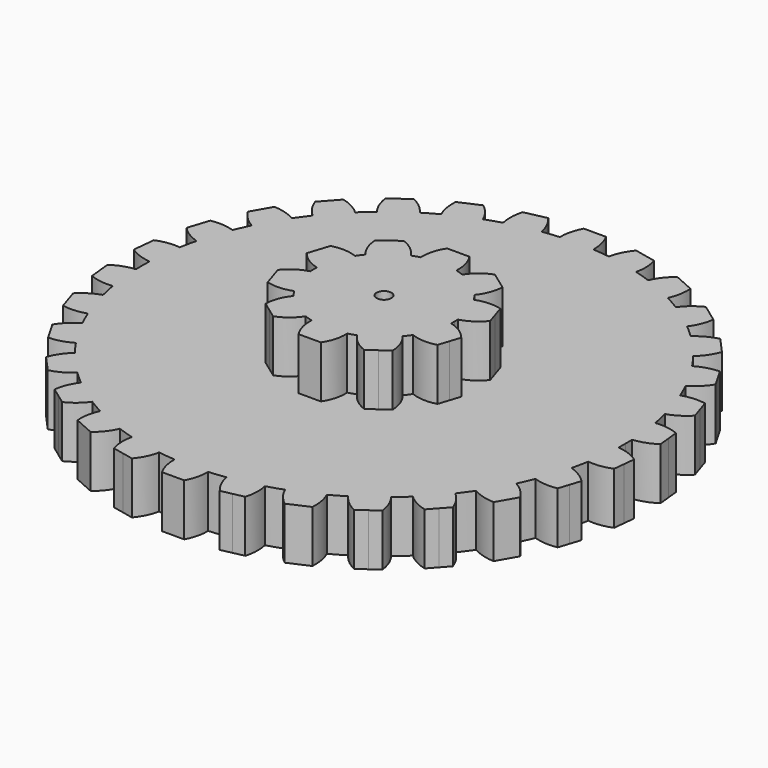
from build123d import *

# Parameters (mm, degrees)
F1_DEPTH = 7
F3_DEPTH = 7
F4_R     = 1
F5_DEPTH = 25


with BuildPart() as f1:
    # F0 (on Top) → F1 (new body)
    with BuildSketch(Plane.XY):
        with BuildLine():
            ThreePointArc((32.480111, -1.13684), (32.495027, -0.568507), (32.5, 0))
            ThreePointArc((32.5, 0), (32.495027, 0.568507), (32.480111, 1.13684))
            ThreePointArc((32.480111, 1.13684), (32.321962, 3.397175), (32.006705, 5.640998))
            ThreePointArc((32.006705, 5.640998), (31.789797, 6.75713), (31.53398, 7.864992))
            ThreePointArc((31.53398, 7.864992), (30.909337, 10.043052), (30.134452, 12.172296))
            ThreePointArc((30.134452, 12.172296), (29.690227, 13.218941), (29.209663, 14.249406))
            ThreePointArc((29.209663, 14.249406), (28.145826, 16.25), (26.945179, 18.171607))
            ThreePointArc((26.945179, 18.171607), (26.293052, 19.103021), (25.608744, 20.011053))
            ThreePointArc((25.608744, 20.011053), (24.152207, 21.746745), (22.578273, 23.376732))
            ThreePointArc((22.578273, 23.376732), (21.746745, 24.152207), (20.8886, 24.89812))
            ThreePointArc((20.8886, 24.89812), (19.103021, 26.293052), (17.224587, 27.560181))
            ThreePointArc((17.224587, 27.560181), (16.25, 28.145826), (15.255523, 28.697021))
            ThreePointArc((15.255523, 28.697021), (13.218941, 29.690227), (11.118105, 30.539118))
            ThreePointArc((11.118105, 30.539118), (10.043052, 30.909337), (8.955707, 31.241724))
            ThreePointArc((8.955707, 31.241724), (6.75713, 31.789797), (4.525708, 32.183349))
            ThreePointArc((4.525708, 32.183349), (3.397175, 32.321962), (2.264484, 32.421013))
            ThreePointArc((2.264484, 32.421013), (0, 32.5), (-2.264484, 32.421013))
            ThreePointArc((-2.264484, 32.421013), (-3.397175, 32.321962), (-4.525708, 32.183349))
            ThreePointArc((-4.525708, 32.183349), (-6.75713, 31.789797), (-8.955707, 31.241724))
            ThreePointArc((-8.955707, 31.241724), (-10.043052, 30.909337), (-11.118105, 30.539118))
            ThreePointArc((-11.118105, 30.539118), (-13.218941, 29.690227), (-15.255523, 28.697021))
            ThreePointArc((-15.255523, 28.697021), (-16.25, 28.145826), (-17.224587, 27.560181))
            ThreePointArc((-17.224587, 27.560181), (-19.103021, 26.293052), (-20.8886, 24.89812))
            ThreePointArc((-20.8886, 24.89812), (-21.746745, 24.152207), (-22.578273, 23.376732))
            ThreePointArc((-22.578273, 23.376732), (-24.152207, 21.746745), (-25.608744, 20.011053))
            ThreePointArc((-25.608744, 20.011053), (-26.293052, 19.103021), (-26.945179, 18.171607))
            ThreePointArc((-26.945179, 18.171607), (-28.145826, 16.25), (-29.209663, 14.249406))
            ThreePointArc((-29.209663, 14.249406), (-29.690227, 13.218941), (-30.134452, 12.172296))
            ThreePointArc((-30.134452, 12.172296), (-30.909337, 10.043052), (-31.53398, 7.864992))
            ThreePointArc((-31.53398, 7.864992), (-31.789797, 6.75713), (-32.006705, 5.640998))
            ThreePointArc((-32.006705, 5.640998), (-32.321962, 3.397175), (-32.480111, 1.13684))
            ThreePointArc((-32.480111, 1.13684), (-32.5, 0), (-32.480111, -1.13684))
            ThreePointArc((-32.480111, -1.13684), (-32.321962, -3.397175), (-32.006705, -5.640998))
            ThreePointArc((-32.006705, -5.640998), (-31.789797, -6.75713), (-31.53398, -7.864992))
            ThreePointArc((-31.53398, -7.864992), (-30.909337, -10.043052), (-30.134452, -12.172296))
            ThreePointArc((-30.134452, -12.172296), (-29.690227, -13.218941), (-29.209663, -14.249406))
            ThreePointArc((-29.209663, -14.249406), (-28.145826, -16.25), (-26.945179, -18.171607))
            ThreePointArc((-26.945179, -18.171607), (-26.293052, -19.103021), (-25.608744, -20.011053))
            ThreePointArc((-25.608744, -20.011053), (-24.152207, -21.746745), (-22.578273, -23.376732))
            ThreePointArc((-22.578273, -23.376732), (-21.746745, -24.152207), (-20.8886, -24.89812))
            ThreePointArc((-20.8886, -24.89812), (-19.103021, -26.293052), (-17.224587, -27.560181))
            ThreePointArc((-17.224587, -27.560181), (-16.25, -28.145826), (-15.255523, -28.697021))
            ThreePointArc((-15.255523, -28.697021), (-13.218941, -29.690227), (-11.118105, -30.539118))
            ThreePointArc((-11.118105, -30.539118), (-10.043052, -30.909337), (-8.955707, -31.241724))
            ThreePointArc((-8.955707, -31.241724), (-6.75713, -31.789797), (-4.525708, -32.183349))
            ThreePointArc((-4.525708, -32.183349), (-3.397175, -32.321962), (-2.264484, -32.421013))
            ThreePointArc((-2.264484, -32.421013), (0, -32.5), (2.264484, -32.421013))
            ThreePointArc((2.264484, -32.421013), (3.397175, -32.321962), (4.525708, -32.183349))
            ThreePointArc((4.525708, -32.183349), (6.75713, -31.789797), (8.955707, -31.241724))
            ThreePointArc((8.955707, -31.241724), (10.043052, -30.909337), (11.118105, -30.539118))
            ThreePointArc((11.118105, -30.539118), (13.218941, -29.690227), (15.255523, -28.697021))
            ThreePointArc((15.255523, -28.697021), (16.25, -28.145826), (17.224587, -27.560181))
            ThreePointArc((17.224587, -27.560181), (19.103021, -26.293052), (20.8886, -24.89812))
            ThreePointArc((20.8886, -24.89812), (21.746745, -24.152207), (22.578273, -23.376732))
            ThreePointArc((22.578273, -23.376732), (24.152207, -21.746745), (25.608744, -20.011053))
            ThreePointArc((25.608744, -20.011053), (26.293052, -19.103021), (26.945179, -18.171607))
            ThreePointArc((26.945179, -18.171607), (28.145826, -16.25), (29.209663, -14.249406))
            ThreePointArc((29.209663, -14.249406), (29.690227, -13.218941), (30.134452, -12.172296))
            ThreePointArc((30.134452, -12.172296), (30.909337, -10.043052), (31.53398, -7.864992))
            ThreePointArc((31.53398, -7.864992), (31.789797, -6.75713), (32.006705, -5.640998))
            ThreePointArc((32.006705, -5.640998), (32.321962, -3.397175), (32.480111, -1.13684))
        make_face()
        with BuildLine():
            ThreePointArc((32.006705, 5.640998), (32.321962, 3.397175), (32.480111, 1.13684))
            ThreePointArc((32.480111, 1.13684), (34.040847, 1.486015), (35.46232, 2.218978))
            Line((35.46232, 2.218978), (35.305527, 3.71076))
            Line((35.305527, 3.71076), (35.148735, 5.202543))
            ThreePointArc((35.148735, 5.202543), (33.605932, 5.623948), (32.006705, 5.640998))
        make_face()
        with BuildLine():
            ThreePointArc((35.46232, -2.218978), (34.040847, -1.486015), (32.480111, -1.13684))
            ThreePointArc((32.480111, -1.13684), (32.321962, -3.397175), (32.006705, -5.640998))
            ThreePointArc((32.006705, -5.640998), (33.605932, -5.623948), (35.148735, -5.202543))
            Line((35.148735, -5.202543), (35.305527, -3.71076))
            Line((35.305527, -3.71076), (35.46232, -2.218978))
        make_face()
        with BuildLine():
            ThreePointArc((30.134452, 12.172296), (30.909337, 10.043052), (31.53398, 7.864992))
            ThreePointArc((31.53398, 7.864992), (32.988013, 8.531032), (34.226032, 9.543519))
            Line((34.226032, 9.543519), (33.762506, 10.970103))
            Line((33.762506, 10.970103), (33.298981, 12.396688))
            ThreePointArc((33.298981, 12.396688), (31.702278, 12.488117), (30.134452, 12.172296))
        make_face()
        with BuildLine():
            ThreePointArc((34.226032, -9.543519), (32.988013, -8.531032), (31.53398, -7.864992))
            ThreePointArc((31.53398, -7.864992), (30.909337, -10.043052), (30.134452, -12.172296))
            ThreePointArc((30.134452, -12.172296), (31.702278, -12.488117), (33.298981, -12.396688))
            Line((33.298981, -12.396688), (33.762506, -10.970103))
            Line((33.762506, -10.970103), (34.226032, -9.543519))
        make_face()
        with BuildLine():
            ThreePointArc((26.945179, 18.171607), (28.145826, 16.25), (29.209663, 14.249406))
            ThreePointArc((29.209663, 14.249406), (30.493444, 15.203202), (31.493902, 16.450962))
            Line((31.493902, 16.450962), (30.743902, 17.75))
            Line((30.743902, 17.75), (29.993902, 19.049038))
            ThreePointArc((29.993902, 19.049038), (28.413081, 18.806496), (26.945179, 18.171607))
        make_face()
        with BuildLine():
            ThreePointArc((31.493902, -16.450962), (30.493444, -15.203202), (29.209663, -14.249406))
            ThreePointArc((29.209663, -14.249406), (28.145826, -16.25), (26.945179, -18.171607))
            ThreePointArc((26.945179, -18.171607), (28.413081, -18.806496), (29.993902, -19.049038))
            Line((29.993902, -19.049038), (30.743902, -17.75))
            Line((30.743902, -17.75), (31.493902, -16.450962))
        make_face()
        with BuildLine():
            ThreePointArc((22.578273, 23.376732), (24.152207, 21.746745), (25.608744, 20.011053))
            ThreePointArc((25.608744, 20.011053), (26.666166, 21.210919), (27.385337, 22.639419))
            Line((27.385337, 22.639419), (26.381641, 23.754137))
            Line((26.381641, 23.754137), (25.377945, 24.868854))
            ThreePointArc((25.377945, 24.868854), (23.882097, 24.302941), (22.578273, 23.376732))
        make_face()
        with BuildLine():
            ThreePointArc((27.385337, -22.639419), (26.666166, -21.210919), (25.608744, -20.011053))
            ThreePointArc((25.608744, -20.011053), (24.152207, -21.746745), (22.578273, -23.376732))
            ThreePointArc((22.578273, -23.376732), (23.882097, -24.302941), (25.377945, -24.868854))
            Line((25.377945, -24.868854), (26.381641, -23.754137))
            Line((26.381641, -23.754137), (27.385337, -22.639419))
        make_face()
        with BuildLine():
            ThreePointArc((17.224587, 27.560181), (19.103021, 26.293052), (20.8886, 24.89812))
            ThreePointArc((20.8886, 24.89812), (21.673448, 26.291617), (22.079902, 27.838425))
            Line((22.079902, 27.838425), (20.866376, 28.720103))
            Line((20.866376, 28.720103), (19.652851, 29.601781))
            ThreePointArc((19.652851, 29.601781), (18.30735, 28.73723), (17.224587, 27.560181))
        make_face()
        with BuildLine():
            ThreePointArc((22.079902, -27.838425), (21.673448, -26.291617), (20.8886, -24.89812))
            ThreePointArc((20.8886, -24.89812), (19.103021, -26.293052), (17.224587, -27.560181))
            ThreePointArc((17.224587, -27.560181), (18.30735, -28.73723), (19.652851, -29.601781))
            Line((19.652851, -29.601781), (20.866376, -28.720103))
            Line((20.866376, -28.720103), (22.079902, -27.838425))
        make_face()
        with BuildLine():
            ThreePointArc((11.118105, 30.539118), (13.218941, 29.690227), (15.255523, 28.697021))
            ThreePointArc((15.255523, 28.697021), (15.733496, 30.223246), (15.809469, 31.820759))
            Line((15.809469, 31.820759), (14.439151, 32.430864))
            Line((14.439151, 32.430864), (13.068833, 33.040969))
            ThreePointArc((13.068833, 33.040969), (11.932485, 31.915565), (11.118105, 30.539118))
        make_face()
        with BuildLine():
            ThreePointArc((15.809469, -31.820759), (15.733496, -30.223246), (15.255523, -28.697021))
            ThreePointArc((15.255523, -28.697021), (13.218941, -29.690227), (11.118105, -30.539118))
            ThreePointArc((11.118105, -30.539118), (11.932485, -31.915565), (13.068833, -33.040969))
            Line((13.068833, -33.040969), (14.439151, -32.430864))
            Line((14.439151, -32.430864), (15.809469, -31.820759))
        make_face()
        with BuildLine():
            ThreePointArc((4.525708, 32.183349), (6.75713, 31.789797), (8.955707, 31.241724))
            ThreePointArc((8.955707, 31.241724), (9.105916, 32.833973), (8.848086, 34.412372))
            Line((8.848086, 34.412372), (7.380865, 34.72424))
            Line((7.380865, 34.72424), (5.913644, 35.036107))
            ThreePointArc((5.913644, 35.036107), (5.036112, 33.699036), (4.525708, 32.183349))
        make_face()
        with BuildLine():
            ThreePointArc((8.848086, -34.412372), (9.105916, -32.833973), (8.955707, -31.241724))
            ThreePointArc((8.955707, -31.241724), (6.75713, -31.789797), (4.525708, -32.183349))
            ThreePointArc((4.525708, -32.183349), (5.036112, -33.699036), (5.913644, -35.036107))
            Line((5.913644, -35.036107), (7.380865, -34.72424))
            Line((7.380865, -34.72424), (8.848086, -34.412372))
        make_face()
        with BuildLine():
            ThreePointArc((-2.264484, 32.421013), (0, 32.5), (2.264484, 32.421013))
            ThreePointArc((2.264484, 32.421013), (2.080363, 34.009698), (1.5, 35.5))
            Line((1.5, 35.5), (0, 35.5))
            Line((0, 35.5), (-1.5, 35.5))
            ThreePointArc((-1.5, 35.5), (-2.080363, 34.009698), (-2.264484, 32.421013))
        make_face()
        with BuildLine():
            ThreePointArc((1.5, -35.5), (2.080363, -34.009698), (2.264484, -32.421013))
            ThreePointArc((2.264484, -32.421013), (0, -32.5), (-2.264484, -32.421013))
            ThreePointArc((-2.264484, -32.421013), (-2.080363, -34.009698), (-1.5, -35.5))
            Line((-1.5, -35.5), (0, -35.5))
            Line((0, -35.5), (1.5, -35.5))
        make_face()
        with BuildLine():
            ThreePointArc((-8.955707, 31.241724), (-6.75713, 31.789797), (-4.525708, 32.183349))
            ThreePointArc((-4.525708, 32.183349), (-5.036112, 33.699036), (-5.913644, 35.036107))
            Line((-5.913644, 35.036107), (-7.380865, 34.72424))
            Line((-7.380865, 34.72424), (-8.848086, 34.412372))
            ThreePointArc((-8.848086, 34.412372), (-9.105916, 32.833973), (-8.955707, 31.241724))
        make_face()
        with BuildLine():
            ThreePointArc((-5.913644, -35.036107), (-5.036112, -33.699036), (-4.525708, -32.183349))
            ThreePointArc((-4.525708, -32.183349), (-6.75713, -31.789797), (-8.955707, -31.241724))
            ThreePointArc((-8.955707, -31.241724), (-9.105916, -32.833973), (-8.848086, -34.412372))
            Line((-8.848086, -34.412372), (-7.380865, -34.72424))
            Line((-7.380865, -34.72424), (-5.913644, -35.036107))
        make_face()
        with BuildLine():
            ThreePointArc((-15.255523, 28.697021), (-13.218941, 29.690227), (-11.118105, 30.539118))
            ThreePointArc((-11.118105, 30.539118), (-11.932485, 31.915565), (-13.068833, 33.040969))
            Line((-13.068833, 33.040969), (-14.439151, 32.430864))
            Line((-14.439151, 32.430864), (-15.809469, 31.820759))
            ThreePointArc((-15.809469, 31.820759), (-15.733496, 30.223246), (-15.255523, 28.697021))
        make_face()
        with BuildLine():
            ThreePointArc((-13.068833, -33.040969), (-11.932485, -31.915565), (-11.118105, -30.539118))
            ThreePointArc((-11.118105, -30.539118), (-13.218941, -29.690227), (-15.255523, -28.697021))
            ThreePointArc((-15.255523, -28.697021), (-15.733496, -30.223246), (-15.809469, -31.820759))
            Line((-15.809469, -31.820759), (-14.439151, -32.430864))
            Line((-14.439151, -32.430864), (-13.068833, -33.040969))
        make_face()
        with BuildLine():
            ThreePointArc((-20.8886, 24.89812), (-19.103021, 26.293052), (-17.224587, 27.560181))
            ThreePointArc((-17.224587, 27.560181), (-18.30735, 28.73723), (-19.652851, 29.601781))
            Line((-19.652851, 29.601781), (-20.866376, 28.720103))
            Line((-20.866376, 28.720103), (-22.079902, 27.838425))
            ThreePointArc((-22.079902, 27.838425), (-21.673448, 26.291617), (-20.8886, 24.89812))
        make_face()
        with BuildLine():
            ThreePointArc((-19.652851, -29.601781), (-18.30735, -28.73723), (-17.224587, -27.560181))
            ThreePointArc((-17.224587, -27.560181), (-19.103021, -26.293052), (-20.8886, -24.89812))
            ThreePointArc((-20.8886, -24.89812), (-21.673448, -26.291617), (-22.079902, -27.838425))
            Line((-22.079902, -27.838425), (-20.866376, -28.720103))
            Line((-20.866376, -28.720103), (-19.652851, -29.601781))
        make_face()
        with BuildLine():
            ThreePointArc((-25.608744, 20.011053), (-24.152207, 21.746745), (-22.578273, 23.376732))
            ThreePointArc((-22.578273, 23.376732), (-23.882097, 24.302941), (-25.377945, 24.868854))
            Line((-25.377945, 24.868854), (-26.381641, 23.754137))
            Line((-26.381641, 23.754137), (-27.385337, 22.639419))
            ThreePointArc((-27.385337, 22.639419), (-26.666166, 21.210919), (-25.608744, 20.011053))
        make_face()
        with BuildLine():
            ThreePointArc((-25.377945, -24.868854), (-23.882097, -24.302941), (-22.578273, -23.376732))
            ThreePointArc((-22.578273, -23.376732), (-24.152207, -21.746745), (-25.608744, -20.011053))
            ThreePointArc((-25.608744, -20.011053), (-26.666166, -21.210919), (-27.385337, -22.639419))
            Line((-27.385337, -22.639419), (-26.381641, -23.754137))
            Line((-26.381641, -23.754137), (-25.377945, -24.868854))
        make_face()
        with BuildLine():
            ThreePointArc((-29.209663, 14.249406), (-28.145826, 16.25), (-26.945179, 18.171607))
            ThreePointArc((-26.945179, 18.171607), (-28.413081, 18.806496), (-29.993902, 19.049038))
            Line((-29.993902, 19.049038), (-30.743902, 17.75))
            Line((-30.743902, 17.75), (-31.493902, 16.450962))
            ThreePointArc((-31.493902, 16.450962), (-30.493444, 15.203202), (-29.209663, 14.249406))
        make_face()
        with BuildLine():
            ThreePointArc((-29.993902, -19.049038), (-28.413081, -18.806496), (-26.945179, -18.171607))
            ThreePointArc((-26.945179, -18.171607), (-28.145826, -16.25), (-29.209663, -14.249406))
            ThreePointArc((-29.209663, -14.249406), (-30.493444, -15.203202), (-31.493902, -16.450962))
            Line((-31.493902, -16.450962), (-30.743902, -17.75))
            Line((-30.743902, -17.75), (-29.993902, -19.049038))
        make_face()
        with BuildLine():
            ThreePointArc((-31.53398, 7.864992), (-30.909337, 10.043052), (-30.134452, 12.172296))
            ThreePointArc((-30.134452, 12.172296), (-31.702278, 12.488117), (-33.298981, 12.396688))
            Line((-33.298981, 12.396688), (-33.762506, 10.970103))
            Line((-33.762506, 10.970103), (-34.226032, 9.543519))
            ThreePointArc((-34.226032, 9.543519), (-32.988013, 8.531032), (-31.53398, 7.864992))
        make_face()
        with BuildLine():
            ThreePointArc((-33.298981, -12.396688), (-31.702278, -12.488117), (-30.134452, -12.172296))
            ThreePointArc((-30.134452, -12.172296), (-30.909337, -10.043052), (-31.53398, -7.864992))
            ThreePointArc((-31.53398, -7.864992), (-32.988013, -8.531032), (-34.226032, -9.543519))
            Line((-34.226032, -9.543519), (-33.762506, -10.970103))
            Line((-33.762506, -10.970103), (-33.298981, -12.396688))
        make_face()
        with BuildLine():
            ThreePointArc((-32.480111, 1.13684), (-32.321962, 3.397175), (-32.006705, 5.640998))
            ThreePointArc((-32.006705, 5.640998), (-33.605932, 5.623948), (-35.148735, 5.202543))
            Line((-35.148735, 5.202543), (-35.305527, 3.71076))
            Line((-35.305527, 3.71076), (-35.46232, 2.218978))
            ThreePointArc((-35.46232, 2.218978), (-34.040847, 1.486015), (-32.480111, 1.13684))
        make_face()
        with BuildLine():
            ThreePointArc((-35.148735, -5.202543), (-33.605932, -5.623948), (-32.006705, -5.640998))
            ThreePointArc((-32.006705, -5.640998), (-32.321962, -3.397175), (-32.480111, -1.13684))
            ThreePointArc((-32.480111, -1.13684), (-34.040847, -1.486015), (-35.46232, -2.218978))
            Line((-35.46232, -2.218978), (-35.305527, -3.71076))
            Line((-35.305527, -3.71076), (-35.148735, -5.202543))
        make_face()
    extrude(amount=F1_DEPTH)

    # F2 (on face) → F3 (join)
    with BuildSketch(Plane.XY.offset(7)):
        with BuildLine():
            ThreePointArc((9.483577, -0.558367), (9.495893, -0.279304), (9.5, 0))
            ThreePointArc((9.5, 0), (9.495893, 0.279304), (9.483577, 0.558367))
            ThreePointArc((9.483577, 0.558367), (9.035037, 2.935661), (8.000575, 5.122578))
            ThreePointArc((8.000575, 5.122578), (7.685661, 5.58396), (7.344175, 6.026035))
            ThreePointArc((7.344175, 6.026035), (5.58396, 7.685661), (3.461625, 8.846872))
            ThreePointArc((3.461625, 8.846872), (2.935661, 9.035037), (2.399547, 9.191962))
            ThreePointArc((2.399547, 9.191962), (0, 9.5), (-2.399547, 9.191962))
            ThreePointArc((-2.399547, 9.191962), (-2.935661, 9.035037), (-3.461625, 8.846872))
            ThreePointArc((-3.461625, 8.846872), (-5.58396, 7.685661), (-7.344175, 6.026035))
            ThreePointArc((-7.344175, 6.026035), (-7.685661, 5.58396), (-8.000575, 5.122578))
            ThreePointArc((-8.000575, 5.122578), (-9.035037, 2.935661), (-9.483577, 0.558367))
            ThreePointArc((-9.483577, 0.558367), (-9.5, 0), (-9.483577, -0.558367))
            ThreePointArc((-9.483577, -0.558367), (-9.035037, -2.935661), (-8.000575, -5.122578))
            ThreePointArc((-8.000575, -5.122578), (-7.685661, -5.58396), (-7.344175, -6.026035))
            ThreePointArc((-7.344175, -6.026035), (-5.58396, -7.685661), (-3.461625, -8.846872))
            ThreePointArc((-3.461625, -8.846872), (-2.935661, -9.035037), (-2.399547, -9.191962))
            ThreePointArc((-2.399547, -9.191962), (0, -9.5), (2.399547, -9.191962))
            ThreePointArc((2.399547, -9.191962), (2.935661, -9.035037), (3.461625, -8.846872))
            ThreePointArc((3.461625, -8.846872), (5.58396, -7.685661), (7.344175, -6.026035))
            ThreePointArc((7.344175, -6.026035), (7.685661, -5.58396), (8.000575, -5.122578))
            ThreePointArc((8.000575, -5.122578), (9.035037, -2.935661), (9.483577, -0.558367))
        make_face()
        with BuildLine():
            ThreePointArc((8.000575, 5.122578), (9.035037, 2.935661), (9.483577, 0.558367))
            ThreePointArc((9.483577, 0.558367), (11.070372, 1.263981), (12.351732, 2.436128))
            Line((12.351732, 2.436128), (11.888206, 3.862712))
            Line((11.888206, 3.862712), (11.424681, 5.289297))
            ThreePointArc((11.424681, 5.289297), (9.699069, 5.484419), (8.000575, 5.122578))
        make_face()
        with BuildLine():
            ThreePointArc((12.351732, -2.436128), (11.070372, -1.263981), (9.483577, -0.558367))
            ThreePointArc((9.483577, -0.558367), (9.035037, -2.935661), (8.000575, -5.122578))
            ThreePointArc((8.000575, -5.122578), (9.699069, -5.484419), (11.424681, -5.289297))
            Line((11.424681, -5.289297), (11.888206, -3.862712))
            Line((11.888206, -3.862712), (12.351732, -2.436128))
        make_face()
        with BuildLine():
            ThreePointArc((3.461625, 8.846872), (5.58396, 7.685661), (7.344175, 6.026035))
            ThreePointArc((7.344175, 6.026035), (8.21317, 7.529584), (8.560841, 9.231035))
            Line((8.560841, 9.231035), (7.347316, 10.112712))
            Line((7.347316, 10.112712), (6.13379, 10.99439))
            ThreePointArc((6.13379, 10.99439), (4.62305, 10.137958), (3.461625, 8.846872))
        make_face()
        with BuildLine():
            ThreePointArc((8.560841, -9.231035), (8.21317, -7.529584), (7.344175, -6.026035))
            ThreePointArc((7.344175, -6.026035), (5.58396, -7.685661), (3.461625, -8.846872))
            ThreePointArc((3.461625, -8.846872), (4.62305, -10.137958), (6.13379, -10.99439))
            Line((6.13379, -10.99439), (7.347316, -10.112712))
            Line((7.347316, -10.112712), (8.560841, -9.231035))
        make_face()
        with BuildLine():
            ThreePointArc((-2.399547, 9.191962), (0, 9.5), (2.399547, 9.191962))
            ThreePointArc((2.399547, 9.191962), (2.218816, 10.919141), (1.5, 12.5))
            Line((1.5, 12.5), (0, 12.5))
            Line((0, 12.5), (-1.5, 12.5))
            ThreePointArc((-1.5, 12.5), (-2.218816, 10.919141), (-2.399547, 9.191962))
        make_face()
        with BuildLine():
            ThreePointArc((1.5, -12.5), (2.218816, -10.919141), (2.399547, -9.191962))
            ThreePointArc((2.399547, -9.191962), (0, -9.5), (-2.399547, -9.191962))
            ThreePointArc((-2.399547, -9.191962), (-2.218816, -10.919141), (-1.5, -12.5))
            Line((-1.5, -12.5), (0, -12.5))
            Line((0, -12.5), (1.5, -12.5))
        make_face()
        with BuildLine():
            ThreePointArc((-7.344175, 6.026035), (-5.58396, 7.685661), (-3.461625, 8.846872))
            ThreePointArc((-3.461625, 8.846872), (-4.62305, 10.137958), (-6.13379, 10.99439))
            Line((-6.13379, 10.99439), (-7.347316, 10.112712))
            Line((-7.347316, 10.112712), (-8.560841, 9.231035))
            ThreePointArc((-8.560841, 9.231035), (-8.21317, 7.529584), (-7.344175, 6.026035))
        make_face()
        with BuildLine():
            ThreePointArc((-6.13379, -10.99439), (-4.62305, -10.137958), (-3.461625, -8.846872))
            ThreePointArc((-3.461625, -8.846872), (-5.58396, -7.685661), (-7.344175, -6.026035))
            ThreePointArc((-7.344175, -6.026035), (-8.21317, -7.529584), (-8.560841, -9.231035))
            Line((-8.560841, -9.231035), (-7.347316, -10.112712))
            Line((-7.347316, -10.112712), (-6.13379, -10.99439))
        make_face()
        with BuildLine():
            ThreePointArc((-9.483577, 0.558367), (-9.035037, 2.935661), (-8.000575, 5.122578))
            ThreePointArc((-8.000575, 5.122578), (-9.699069, 5.484419), (-11.424681, 5.289297))
            Line((-11.424681, 5.289297), (-11.888206, 3.862712))
            Line((-11.888206, 3.862712), (-12.351732, 2.436128))
            ThreePointArc((-12.351732, 2.436128), (-11.070372, 1.263981), (-9.483577, 0.558367))
        make_face()
        with BuildLine():
            ThreePointArc((-11.424681, -5.289297), (-9.699069, -5.484419), (-8.000575, -5.122578))
            ThreePointArc((-8.000575, -5.122578), (-9.035037, -2.935661), (-9.483577, -0.558367))
            ThreePointArc((-9.483577, -0.558367), (-11.070372, -1.263981), (-12.351732, -2.436128))
            Line((-12.351732, -2.436128), (-11.888206, -3.862712))
            Line((-11.888206, -3.862712), (-11.424681, -5.289297))
        make_face()
    extrude(amount=F3_DEPTH)

    # F4 (on face) → F5 (cut)
    with BuildSketch(Plane.XY.offset(14)):
        Circle(F4_R)
    extrude(amount=-F5_DEPTH, mode=Mode.SUBTRACT)


solid = f1.part
